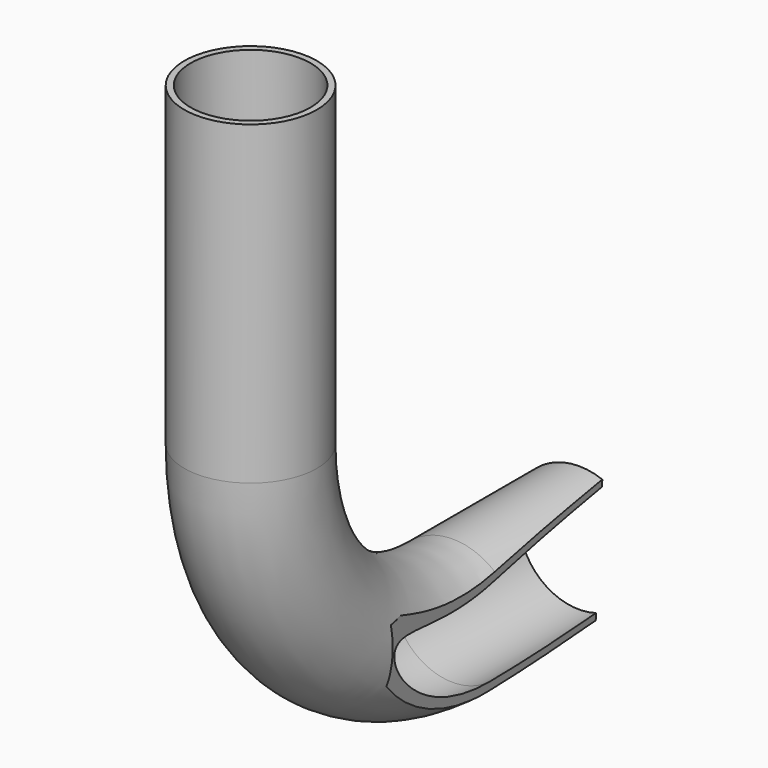
from build123d import *

# Parameters (mm, degrees)
F1_R     = 21
F1_R_2   = 19
F3_DEPTH = 100
F4_DEPTH = 50
F7_DEPTH = 25


with BuildPart() as f2:
    # F2: sweep along a path in F0
    with BuildLine(Plane.YZ) as f2_path:
        ThreePointArc((0, -80), (-56.5685424949, -56.5685424949), (-80, 0))
    # F1 (on Top) → F2 (sweep)
    with BuildSketch(Plane.XY):
        with Locations((0, -80.018363893)):
            Circle(F1_R)
        with Locations((0, -80.018363893)):
            Circle(F1_R_2, mode=Mode.SUBTRACT)
    sweep(path=f2_path.line)

    # F3 (add): a face of the model
    f3_faces = [f2.faces().sort_by_distance(p)[0] for p in [
        (-20.4060303038, -80.018363893, 0),
    ]]
    extrude(f3_faces, amount=F3_DEPTH)

    # F4 (add): a face of the model
    f4_faces = [f2.faces().sort_by_distance(p)[0] for p in [
        (-20.4060303038, 0, -80.018363893),
    ]]
    extrude(f4_faces, amount=F4_DEPTH)

    # F6 (on face) → F7 (cut, symmetric)
    with BuildSketch(Plane(origin=(-4.1820983055, 0, -79.7991894081), x_dir=(0.9986295348, 0, -0.0523359562), z_dir=(0.0523359562, 0, 0.9986295348))):
        Polygon((58.3756751827, 50), (23.1878375913, 50), (10.5211709247, 50), (22.799627015, -50), (58.3756751827, -50), align=None)
    extrude(amount=F7_DEPTH, both=True, mode=Mode.SUBTRACT)


solid = f2.part
